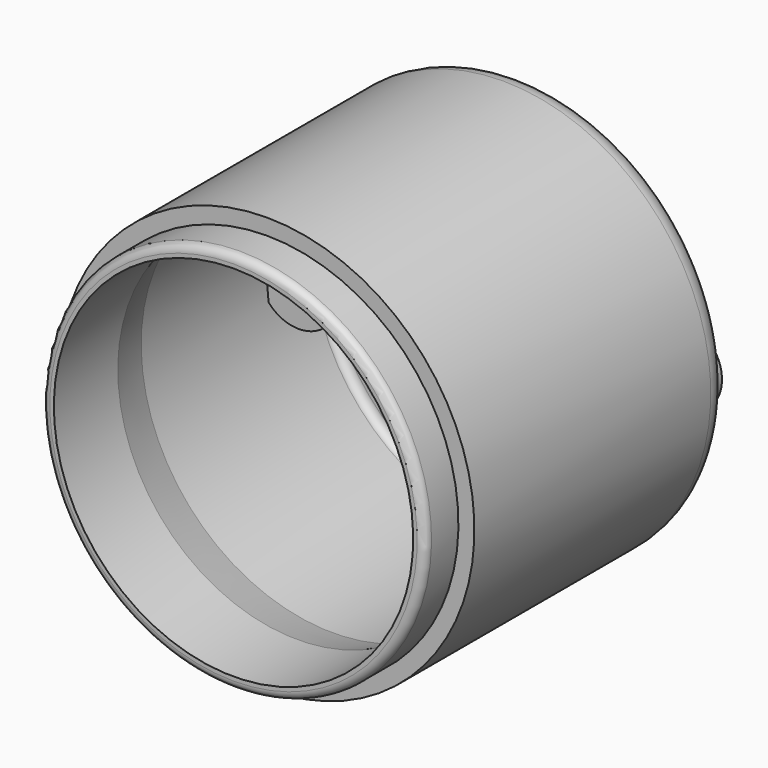
from build123d import *

# Parameters (mm, degrees)
F2_R      = 2
F3_DEPTH  = 10
F3_FACE_R = 2
F2_R_2    = 5
F2_R_3    = 4
F4_DEPTH  = 7.6
F5_DEPTH  = 25


with BuildPart() as f1:
    # F0 (on Right) → F1 (revolve)
    with BuildSketch(Plane.YZ):
        with BuildLine():
            Line((-2, 0), (0, 0))
            Line((0, 0), (0, 23))
            ThreePointArc((0, 23), (-0.8786796564, 25.1213203436), (-3, 26))
            Line((-3, 26), (-40, 26))
            Line((-40, 26), (-40, 24))
            Line((-40, 24), (-44.203865394, 24))
            ThreePointArc((-44.203865394, 24), (-44.9109721752, 23.7071067812), (-45.203865394, 23))
            Line((-45.203865394, 23), (-45.203865394, 22.5))
            Line((-45.203865394, 22.5), (-35.203865394, 22.5))
            Line((-35.203865394, 22.5), (-29.6515244991, 24))
            Line((-29.6515244991, 24), (-3, 24))
            ThreePointArc((-3, 24), (-2.2928932188, 23.7071067812), (-2, 23))
            Line((-2, 23), (-2, 0))
        make_face()
    revolve(axis=Axis((0, -18.7915153801, 0), (0, 1, 0)))

    # F2 (on face) → F3 (join)
    with BuildSketch(Plane(origin=(0, 0, 0), x_dir=(-1, 0, 0), z_dir=(0, 1, 0))):
        with BuildLine():
            ThreePointArc((22.6, -4.2708313008), (24.3588989435, -2.4494897428), (25, 0))
            ThreePointArc((25, 0), (24.3588989435, 2.4494897428), (22.6, 4.2708313008))
            ThreePointArc((22.6, 4.2708313008), (22.8997816583, 2.144761059), (23, 0))
            ThreePointArc((23, 0), (22.8997816583, -2.144761059), (22.6, -4.2708313008))
        make_face()
        with BuildLine():
            ThreePointArc((23, 0), (22.8997816583, 2.144761059), (22.6, 4.2708313008))
            ThreePointArc((22.6, 4.2708313008), (15, 0), (22.6, -4.2708313008))
            ThreePointArc((22.6, -4.2708313008), (22.8997816583, -2.144761059), (23, 0))
        make_face()
        with Locations((20, 0)):
            Circle(F2_R, mode=Mode.SUBTRACT)
        with BuildLine():
            ThreePointArc((-15, 0), (-17.5505102572, 4.3588989435), (-22.6, 4.2708313008))
            ThreePointArc((-22.6, 4.2708313008), (-23, 0), (-22.6, -4.2708313008))
            ThreePointArc((-22.6, -4.2708313008), (-17.5505102572, -4.3588989435), (-15, 0))
        make_face()
        with Locations((-20, 0)):
            Circle(F2_R, mode=Mode.SUBTRACT)
        with BuildLine():
            ThreePointArc((-22.6, -4.2708313008), (-23, 0), (-22.6, 4.2708313008))
            ThreePointArc((-22.6, 4.2708313008), (-25, 0), (-22.6, -4.2708313008))
        make_face()
    extrude(amount=-F3_DEPTH)

    # F3_face (on face) + F2 (on face) + F3_face1 (on face) → F4 (cut)
    with BuildSketch(Plane(origin=(-20, -2, 0), x_dir=(1, 0, 0), z_dir=(0, -1, 0))):
        Circle(F3_FACE_R)
        with Locations((40, 0)):
            Circle(F3_FACE_R)
    with BuildSketch(Plane(origin=(0, 0, 0), x_dir=(-1, 0, 0), z_dir=(0, 1, 0))):
        with Locations((20, 0)):
            Circle(F2_R_2)
        with Locations((20, 0)):
            Circle(F2_R, mode=Mode.SUBTRACT)
        with Locations((-20, 0)):
            Circle(F2_R_2)
        with Locations((-20, 0)):
            Circle(F2_R, mode=Mode.SUBTRACT)
        with Locations((0, 16.4260324091)):
            Circle(F2_R_3)
    with BuildSketch(Plane(origin=(0, 0, 0), x_dir=(-1, 0, 0), z_dir=(0, 1, 0))):
        with BuildLine():
            ThreePointArc((0, 23), (-14.6760158095, 17.7091659871), (-22.6, 4.2708313008))
            ThreePointArc((-22.6, 4.2708313008), (-25, 0), (-22.6, -4.2708313008))
            ThreePointArc((-22.6, -4.2708313008), (0, -23), (22.6, -4.2708313008))
            ThreePointArc((22.6, -4.2708313008), (25, 0), (22.6, 4.2708313008))
            ThreePointArc((22.6, 4.2708313008), (14.6760158095, 17.7091659871), (0, 23))
        make_face()
    extrude(amount=-F4_DEPTH, dir=(0, -1, 0), mode=Mode.SUBTRACT)

    # F2 (on face) → F5 (cut)
    with BuildSketch(Plane(origin=(0, 0, 0), x_dir=(-1, 0, 0), z_dir=(0, 1, 0))):
        with Locations((0, 16.4260324091)):
            Circle(F2_R_3)
    extrude(amount=-F5_DEPTH, mode=Mode.SUBTRACT)


solid = f1.part
